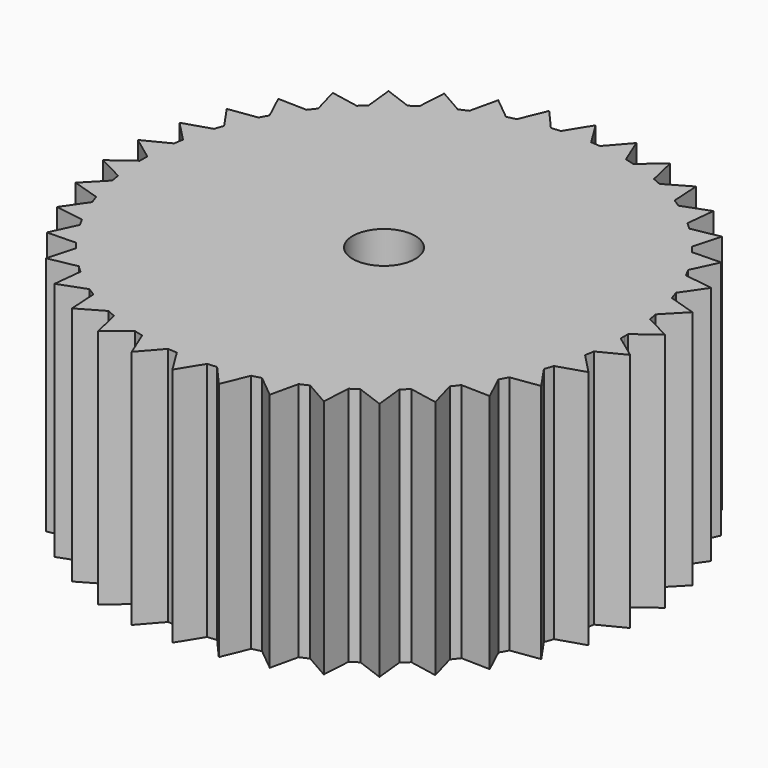
from build123d import *

# Parameters (mm, degrees)
F0_R     = 3.302
F1_DEPTH = 25.4


with BuildPart() as f1:
    # F0 (on Top) → F1 (new body)
    with BuildSketch(Plane.XY):
        with BuildLine():
            ThreePointArc((25.395212, -0.493171), (25.398803, -0.246597), (25.4, 0))
            ThreePointArc((25.4, 0), (25.398803, 0.246597), (25.395212, 0.493171))
            ThreePointArc((25.395212, 0.493171), (25.366916, 1.295991), (25.313246, 2.097515))
            ThreePointArc((25.313246, 2.097515), (25.234257, 2.896941), (25.130027, 3.69347))
            ThreePointArc((25.130027, 3.69347), (25.053577, 4.180703), (24.967681, 4.666359))
            ThreePointArc((24.967681, 4.666359), (24.807631, 5.453573), (24.622767, 6.235331))
            ThreePointArc((24.622767, 6.235331), (24.413274, 7.010853), (24.179361, 7.779362))
            ThreePointArc((24.179361, 7.779362), (24.023758, 8.247367), (23.859097, 8.712261))
            ThreePointArc((23.859097, 8.712261), (23.571658, 9.462395), (23.260642, 10.203064))
            ThreePointArc((23.260642, 10.203064), (22.92636, 10.933527), (22.569146, 11.653054))
            ThreePointArc((22.569146, 11.653054), (22.338633, 12.089064), (22.099699, 12.520516))
            ThreePointArc((22.099699, 12.520516), (21.692713, 13.213108), (21.264029, 13.892483))
            ThreePointArc((21.264029, 13.892483), (20.814075, 14.557963), (20.343302, 15.208881))
            ThreePointArc((20.343302, 15.208881), (20.044169, 15.601003), (19.737479, 15.987243))
            ThreePointArc((19.737479, 15.987243), (19.222046, 16.603401), (18.687387, 17.202952))
            ThreePointArc((18.687387, 17.202952), (18.134036, 17.785295), (17.562546, 18.349849))
            ThreePointArc((17.562546, 18.349849), (17.202952, 18.687387), (16.836871, 19.01788))
            ThreePointArc((16.836871, 19.01788), (16.227053, 19.540797), (15.601003, 20.044169))
            ThreePointArc((15.601003, 20.044169), (14.959348, 20.527491), (14.30273, 20.990281))
            ThreePointArc((14.30273, 20.990281), (13.892483, 21.264029), (13.476998, 21.529759))
            ThreePointArc((13.476998, 21.529759), (12.789427, 21.945171), (12.089064, 22.338633))
            ThreePointArc((12.089064, 22.338633), (11.376608, 22.709751), (10.652773, 23.058153))
            ThreePointArc((10.652773, 23.058153), (10.203064, 23.260642), (9.749508, 23.454362))
            ThreePointArc((9.749508, 23.454362), (9.00294, 23.750938), (8.247367, 24.023758))
            ThreePointArc((8.247367, 24.023758), (7.483544, 24.272548), (6.712236, 24.497059))
            ThreePointArc((6.712236, 24.497059), (6.235331, 24.622767), (5.756076, 24.739191))
            ThreePointArc((5.756076, 24.739191), (4.970875, 24.908842), (4.180703, 25.053577))
            ThreePointArc((4.180703, 25.053577), (3.386348, 25.173253), (2.588606, 25.267749))
            ThreePointArc((2.588606, 25.267749), (2.097515, 25.313246), (1.605634, 25.3492))
            ThreePointArc((1.605634, 25.3492), (0.803219, 25.387297), (0, 25.4))
            ThreePointArc((0, 25.4), (-0.803219, 25.387297), (-1.605634, 25.3492))
            ThreePointArc((-1.605634, 25.3492), (-2.097515, 25.313246), (-2.588606, 25.267749))
            ThreePointArc((-2.588606, 25.267749), (-3.386348, 25.173253), (-4.180703, 25.053577))
            ThreePointArc((-4.180703, 25.053577), (-4.970875, 24.908842), (-5.756076, 24.739191))
            ThreePointArc((-5.756076, 24.739191), (-6.235331, 24.622767), (-6.712236, 24.497059))
            ThreePointArc((-6.712236, 24.497059), (-7.483544, 24.272548), (-8.247367, 24.023758))
            ThreePointArc((-8.247367, 24.023758), (-9.00294, 23.750938), (-9.749508, 23.454362))
            ThreePointArc((-9.749508, 23.454362), (-10.203064, 23.260642), (-10.652773, 23.058153))
            ThreePointArc((-10.652773, 23.058153), (-11.376608, 22.709751), (-12.089064, 22.338633))
            ThreePointArc((-12.089064, 22.338633), (-12.789427, 21.945171), (-13.476998, 21.529759))
            ThreePointArc((-13.476998, 21.529759), (-13.892483, 21.264029), (-14.30273, 20.990281))
            ThreePointArc((-14.30273, 20.990281), (-14.959348, 20.527491), (-15.601003, 20.044169))
            ThreePointArc((-15.601003, 20.044169), (-16.227053, 19.540797), (-16.836871, 19.01788))
            ThreePointArc((-16.836871, 19.01788), (-17.202952, 18.687387), (-17.562546, 18.349849))
            ThreePointArc((-17.562546, 18.349849), (-18.134036, 17.785295), (-18.687387, 17.202952))
            ThreePointArc((-18.687387, 17.202952), (-19.222046, 16.603401), (-19.737479, 15.987243))
            ThreePointArc((-19.737479, 15.987243), (-20.044169, 15.601003), (-20.343302, 15.208881))
            ThreePointArc((-20.343302, 15.208881), (-20.814075, 14.557963), (-21.264029, 13.892483))
            ThreePointArc((-21.264029, 13.892483), (-21.692713, 13.213108), (-22.099699, 12.520516))
            ThreePointArc((-22.099699, 12.520516), (-22.338633, 12.089064), (-22.569146, 11.653054))
            ThreePointArc((-22.569146, 11.653054), (-22.92636, 10.933527), (-23.260642, 10.203064))
            ThreePointArc((-23.260642, 10.203064), (-23.571658, 9.462395), (-23.859097, 8.712261))
            ThreePointArc((-23.859097, 8.712261), (-24.023758, 8.247367), (-24.179361, 7.779362))
            ThreePointArc((-24.179361, 7.779362), (-24.413274, 7.010853), (-24.622767, 6.235331))
            ThreePointArc((-24.622767, 6.235331), (-24.807631, 5.453573), (-24.967681, 4.666359))
            ThreePointArc((-24.967681, 4.666359), (-25.053577, 4.180703), (-25.130027, 3.69347))
            ThreePointArc((-25.130027, 3.69347), (-25.234257, 2.896941), (-25.313246, 2.097515))
            ThreePointArc((-25.313246, 2.097515), (-25.366916, 1.295991), (-25.395212, 0.493171))
            ThreePointArc((-25.395212, 0.493171), (-25.4, 0), (-25.395212, -0.493171))
            ThreePointArc((-25.395212, -0.493171), (-25.366916, -1.295991), (-25.313246, -2.097515))
            ThreePointArc((-25.313246, -2.097515), (-25.234257, -2.896941), (-25.130027, -3.69347))
            ThreePointArc((-25.130027, -3.69347), (-25.053577, -4.180703), (-24.967681, -4.666359))
            ThreePointArc((-24.967681, -4.666359), (-24.807631, -5.453573), (-24.622767, -6.235331))
            ThreePointArc((-24.622767, -6.235331), (-24.413274, -7.010853), (-24.179361, -7.779362))
            ThreePointArc((-24.179361, -7.779362), (-24.023758, -8.247367), (-23.859097, -8.712261))
            ThreePointArc((-23.859097, -8.712261), (-23.571658, -9.462395), (-23.260642, -10.203064))
            ThreePointArc((-23.260642, -10.203064), (-22.92636, -10.933527), (-22.569146, -11.653054))
            ThreePointArc((-22.569146, -11.653054), (-22.338633, -12.089064), (-22.099699, -12.520516))
            ThreePointArc((-22.099699, -12.520516), (-21.692713, -13.213108), (-21.264029, -13.892483))
            ThreePointArc((-21.264029, -13.892483), (-20.814075, -14.557963), (-20.343302, -15.208881))
            ThreePointArc((-20.343302, -15.208881), (-20.044169, -15.601003), (-19.737479, -15.987243))
            ThreePointArc((-19.737479, -15.987243), (-19.222046, -16.603401), (-18.687387, -17.202952))
            ThreePointArc((-18.687387, -17.202952), (-18.134036, -17.785295), (-17.562546, -18.349849))
            ThreePointArc((-17.562546, -18.349849), (-17.202952, -18.687387), (-16.836871, -19.01788))
            ThreePointArc((-16.836871, -19.01788), (-16.227053, -19.540797), (-15.601003, -20.044169))
            ThreePointArc((-15.601003, -20.044169), (-14.959348, -20.527491), (-14.30273, -20.990281))
            ThreePointArc((-14.30273, -20.990281), (-13.892483, -21.264029), (-13.476998, -21.529759))
            ThreePointArc((-13.476998, -21.529759), (-12.789427, -21.945171), (-12.089064, -22.338633))
            ThreePointArc((-12.089064, -22.338633), (-11.376608, -22.709751), (-10.652773, -23.058153))
            ThreePointArc((-10.652773, -23.058153), (-10.203064, -23.260642), (-9.749508, -23.454362))
            ThreePointArc((-9.749508, -23.454362), (-9.00294, -23.750938), (-8.247367, -24.023758))
            ThreePointArc((-8.247367, -24.023758), (-7.483544, -24.272548), (-6.712236, -24.497059))
            ThreePointArc((-6.712236, -24.497059), (-6.235331, -24.622767), (-5.756076, -24.739191))
            ThreePointArc((-5.756076, -24.739191), (-4.970875, -24.908842), (-4.180703, -25.053577))
            ThreePointArc((-4.180703, -25.053577), (-3.386348, -25.173253), (-2.588606, -25.267749))
            ThreePointArc((-2.588606, -25.267749), (-2.097515, -25.313246), (-1.605634, -25.3492))
            ThreePointArc((-1.605634, -25.3492), (-0.803219, -25.387297), (0, -25.4))
            ThreePointArc((0, -25.4), (0.803219, -25.387297), (1.605634, -25.3492))
            ThreePointArc((1.605634, -25.3492), (2.097515, -25.313246), (2.588606, -25.267749))
            ThreePointArc((2.588606, -25.267749), (3.386348, -25.173253), (4.180703, -25.053577))
            ThreePointArc((4.180703, -25.053577), (4.970875, -24.908842), (5.756076, -24.739191))
            ThreePointArc((5.756076, -24.739191), (6.235331, -24.622767), (6.712236, -24.497059))
            ThreePointArc((6.712236, -24.497059), (7.483544, -24.272548), (8.247367, -24.023758))
            ThreePointArc((8.247367, -24.023758), (9.00294, -23.750938), (9.749508, -23.454362))
            ThreePointArc((9.749508, -23.454362), (10.203064, -23.260642), (10.652773, -23.058153))
            ThreePointArc((10.652773, -23.058153), (11.376608, -22.709751), (12.089064, -22.338633))
            ThreePointArc((12.089064, -22.338633), (12.789427, -21.945171), (13.476998, -21.529759))
            ThreePointArc((13.476998, -21.529759), (13.892483, -21.264029), (14.30273, -20.990281))
            ThreePointArc((14.30273, -20.990281), (14.959348, -20.527491), (15.601003, -20.044169))
            ThreePointArc((15.601003, -20.044169), (16.227053, -19.540797), (16.836871, -19.01788))
            ThreePointArc((16.836871, -19.01788), (17.202952, -18.687387), (17.562546, -18.349849))
            ThreePointArc((17.562546, -18.349849), (18.134036, -17.785295), (18.687387, -17.202952))
            ThreePointArc((18.687387, -17.202952), (19.222046, -16.603401), (19.737479, -15.987243))
            ThreePointArc((19.737479, -15.987243), (20.044169, -15.601003), (20.343302, -15.208881))
            ThreePointArc((20.343302, -15.208881), (20.814075, -14.557963), (21.264029, -13.892483))
            ThreePointArc((21.264029, -13.892483), (21.692713, -13.213108), (22.099699, -12.520516))
            ThreePointArc((22.099699, -12.520516), (22.338633, -12.089064), (22.569146, -11.653054))
            ThreePointArc((22.569146, -11.653054), (22.92636, -10.933527), (23.260642, -10.203064))
            ThreePointArc((23.260642, -10.203064), (23.571658, -9.462395), (23.859097, -8.712261))
            ThreePointArc((23.859097, -8.712261), (24.023758, -8.247367), (24.179361, -7.779362))
            ThreePointArc((24.179361, -7.779362), (24.413274, -7.010853), (24.622767, -6.235331))
            ThreePointArc((24.622767, -6.235331), (24.807631, -5.453573), (24.967681, -4.666359))
            ThreePointArc((24.967681, -4.666359), (25.053577, -4.180703), (25.130027, -3.69347))
            ThreePointArc((25.130027, -3.69347), (25.234257, -2.896941), (25.313246, -2.097515))
            ThreePointArc((25.313246, -2.097515), (25.366916, -1.295991), (25.395212, -0.493171))
        make_face()
        Circle(F0_R, mode=Mode.SUBTRACT)
        with BuildLine():
            ThreePointArc((25.313246, 2.097515), (25.366916, 1.295991), (25.395212, 0.493171))
            Line((25.395212, 0.493171), (27.844571, 2.307267))
            Line((27.844571, 2.307267), (25.313246, 2.097515))
        make_face()
        with BuildLine():
            Line((27.844571, -2.307267), (25.395212, -0.493171))
            ThreePointArc((25.395212, -0.493171), (25.366916, -1.295991), (25.313246, -2.097515))
            Line((25.313246, -2.097515), (27.844571, -2.307267))
        make_face()
        with BuildLine():
            ThreePointArc((25.130027, 3.69347), (25.234257, 2.896941), (25.313246, 2.097515))
            Line((25.313246, 2.097515), (27.844571, 2.307267))
            Line((27.844571, 2.307267), (25.130027, 3.69347))
        make_face()
        with BuildLine():
            Line((27.844571, -2.307267), (25.313246, -2.097515))
            ThreePointArc((25.313246, -2.097515), (25.234257, -2.896941), (25.130027, -3.69347))
            Line((25.130027, -3.69347), (27.844571, -2.307267))
        make_face()
        with BuildLine():
            ThreePointArc((24.622767, 6.235331), (24.807631, 5.453573), (24.967681, 4.666359))
            Line((24.967681, 4.666359), (27.085043, 6.858865))
            Line((27.085043, 6.858865), (24.622767, 6.235331))
        make_face()
        with BuildLine():
            Line((27.085043, -6.858865), (24.967681, -4.666359))
            ThreePointArc((24.967681, -4.666359), (24.807631, -5.453573), (24.622767, -6.235331))
            Line((24.622767, -6.235331), (27.085043, -6.858865))
        make_face()
        with BuildLine():
            ThreePointArc((24.179361, 7.779362), (24.413274, 7.010853), (24.622767, 6.235331))
            Line((24.622767, 6.235331), (27.085043, 6.858865))
            Line((27.085043, 6.858865), (24.179361, 7.779362))
        make_face()
        with BuildLine():
            Line((27.085043, -6.858865), (24.622767, -6.235331))
            ThreePointArc((24.622767, -6.235331), (24.413274, -7.010853), (24.179361, -7.779362))
            Line((24.179361, -7.779362), (27.085043, -6.858865))
        make_face()
        with BuildLine():
            ThreePointArc((23.260642, 10.203064), (23.571658, 9.462395), (23.859097, 8.712261))
            Line((23.859097, 8.712261), (25.586707, 11.22337))
            Line((25.586707, 11.22337), (23.260642, 10.203064))
        make_face()
        with BuildLine():
            Line((25.586707, -11.22337), (23.859097, -8.712261))
            ThreePointArc((23.859097, -8.712261), (23.571658, -9.462395), (23.260642, -10.203064))
            Line((23.260642, -10.203064), (25.586707, -11.22337))
        make_face()
        with BuildLine():
            ThreePointArc((22.569146, 11.653054), (22.92636, 10.933527), (23.260642, 10.203064))
            Line((23.260642, 10.203064), (25.586707, 11.22337))
            Line((25.586707, 11.22337), (22.569146, 11.653054))
        make_face()
        with BuildLine():
            Line((25.586707, -11.22337), (23.260642, -10.203064))
            ThreePointArc((23.260642, -10.203064), (22.92636, -10.933527), (22.569146, -11.653054))
            Line((22.569146, -11.653054), (25.586707, -11.22337))
        make_face()
        with BuildLine():
            ThreePointArc((21.264029, 13.892483), (21.692713, 13.213108), (22.099699, 12.520516))
            Line((22.099699, 12.520516), (23.390431, 15.281732))
            Line((23.390431, 15.281732), (21.264029, 13.892483))
        make_face()
        with BuildLine():
            Line((23.390431, -15.281732), (22.099699, -12.520516))
            ThreePointArc((22.099699, -12.520516), (21.692713, -13.213108), (21.264029, -13.892483))
            Line((21.264029, -13.892483), (23.390431, -15.281732))
        make_face()
        with BuildLine():
            ThreePointArc((20.343302, 15.208881), (20.814075, 14.557963), (21.264029, 13.892483))
            Line((21.264029, 13.892483), (23.390431, 15.281732))
            Line((23.390431, 15.281732), (20.343302, 15.208881))
        make_face()
        with BuildLine():
            Line((23.390431, -15.281732), (21.264029, -13.892483))
            ThreePointArc((21.264029, -13.892483), (20.814075, -14.557963), (20.343302, -15.208881))
            Line((20.343302, -15.208881), (23.390431, -15.281732))
        make_face()
        with BuildLine():
            ThreePointArc((18.687387, 17.202952), (19.222046, 16.603401), (19.737479, 15.987243))
            Line((19.737479, 15.987243), (20.556126, 18.923247))
            Line((20.556126, 18.923247), (18.687387, 17.202952))
        make_face()
        with BuildLine():
            Line((20.556126, -18.923247), (19.737479, -15.987243))
            ThreePointArc((19.737479, -15.987243), (19.222046, -16.603401), (18.687387, -17.202952))
            Line((18.687387, -17.202952), (20.556126, -18.923247))
        make_face()
        with BuildLine():
            ThreePointArc((17.562546, 18.349849), (18.134036, 17.785295), (18.687387, 17.202952))
            Line((18.687387, 17.202952), (20.556126, 18.923247))
            Line((20.556126, 18.923247), (17.562546, 18.349849))
        make_face()
        with BuildLine():
            Line((20.556126, -18.923247), (18.687387, -17.202952))
            ThreePointArc((18.687387, -17.202952), (18.134036, -17.785295), (17.562546, -18.349849))
            Line((17.562546, -18.349849), (20.556126, -18.923247))
        make_face()
        with BuildLine():
            ThreePointArc((15.601003, 20.044169), (16.227053, 19.540797), (16.836871, 19.01788))
            Line((16.836871, 19.01788), (17.161103, 22.048586))
            Line((17.161103, 22.048586), (15.601003, 20.044169))
        make_face()
        with BuildLine():
            Line((17.161103, -22.048586), (16.836871, -19.01788))
            ThreePointArc((16.836871, -19.01788), (16.227053, -19.540797), (15.601003, -20.044169))
            Line((15.601003, -20.044169), (17.161103, -22.048586))
        make_face()
        with BuildLine():
            ThreePointArc((14.30273, 20.990281), (14.959348, 20.527491), (15.601003, 20.044169))
            Line((15.601003, 20.044169), (17.161103, 22.048586))
            Line((17.161103, 22.048586), (14.30273, 20.990281))
        make_face()
        with BuildLine():
            Line((17.161103, -22.048586), (15.601003, -20.044169))
            ThreePointArc((15.601003, -20.044169), (14.959348, -20.527491), (14.30273, -20.990281))
            Line((14.30273, -20.990281), (17.161103, -22.048586))
        make_face()
        with BuildLine():
            ThreePointArc((12.089064, 22.338633), (12.789427, 21.945171), (13.476998, 21.529759))
            Line((13.476998, 21.529759), (13.29797, 24.572497))
            Line((13.29797, 24.572497), (12.089064, 22.338633))
        make_face()
        with BuildLine():
            Line((13.29797, -24.572497), (13.476998, -21.529759))
            ThreePointArc((13.476998, -21.529759), (12.789427, -21.945171), (12.089064, -22.338633))
            Line((12.089064, -22.338633), (13.29797, -24.572497))
        make_face()
        with BuildLine():
            ThreePointArc((10.652773, 23.058153), (11.376608, 22.709751), (12.089064, 22.338633))
            Line((12.089064, 22.338633), (13.29797, 24.572497))
            Line((13.29797, 24.572497), (10.652773, 23.058153))
        make_face()
        with BuildLine():
            Line((13.29797, -24.572497), (12.089064, -22.338633))
            ThreePointArc((12.089064, -22.338633), (11.376608, -22.709751), (10.652773, -23.058153))
            Line((10.652773, -23.058153), (13.29797, -24.572497))
        make_face()
        with BuildLine():
            ThreePointArc((8.247367, 24.023758), (9.00294, 23.750938), (9.749508, 23.454362))
            Line((9.749508, 23.454362), (9.072103, 26.426134))
            Line((9.072103, 26.426134), (8.247367, 24.023758))
        make_face()
        with BuildLine():
            Line((9.072103, -26.426134), (9.749508, -23.454362))
            ThreePointArc((9.749508, -23.454362), (9.00294, -23.750938), (8.247367, -24.023758))
            Line((8.247367, -24.023758), (9.072103, -26.426134))
        make_face()
        with BuildLine():
            ThreePointArc((6.712236, 24.497059), (7.483544, 24.272548), (8.247367, 24.023758))
            Line((8.247367, 24.023758), (9.072103, 26.426134))
            Line((9.072103, 26.426134), (6.712236, 24.497059))
        make_face()
        with BuildLine():
            Line((9.072103, -26.426134), (8.247367, -24.023758))
            ThreePointArc((8.247367, -24.023758), (7.483544, -24.272548), (6.712236, -24.497059))
            Line((6.712236, -24.497059), (9.072103, -26.426134))
        make_face()
        with BuildLine():
            ThreePointArc((4.180703, 25.053577), (4.970875, 24.908842), (5.756076, 24.739191))
            Line((5.756076, 24.739191), (4.598773, 27.558935))
            Line((4.598773, 27.558935), (4.180703, 25.053577))
        make_face()
        with BuildLine():
            Line((4.598773, -27.558935), (5.756076, -24.739191))
            ThreePointArc((5.756076, -24.739191), (4.970875, -24.908842), (4.180703, -25.053577))
            Line((4.180703, -25.053577), (4.598773, -27.558935))
        make_face()
        with BuildLine():
            ThreePointArc((2.588606, 25.267749), (3.386348, 25.173253), (4.180703, 25.053577))
            Line((4.180703, 25.053577), (4.598773, 27.558935))
            Line((4.598773, 27.558935), (2.588606, 25.267749))
        make_face()
        with BuildLine():
            Line((4.598773, -27.558935), (4.180703, -25.053577))
            ThreePointArc((4.180703, -25.053577), (3.386348, -25.173253), (2.588606, -25.267749))
            Line((2.588606, -25.267749), (4.598773, -27.558935))
        make_face()
        with BuildLine():
            ThreePointArc((0, 25.4), (0.803219, 25.387297), (1.605634, 25.3492))
            Line((1.605634, 25.3492), (0, 27.94))
            Line((0, 27.94), (0, 25.4))
        make_face()
        with BuildLine():
            Line((0, -27.94), (1.605634, -25.3492))
            ThreePointArc((1.605634, -25.3492), (0.803219, -25.387297), (0, -25.4))
            Line((0, -25.4), (0, -27.94))
        make_face()
        with BuildLine():
            ThreePointArc((-1.605634, 25.3492), (-0.803219, 25.387297), (0, 25.4))
            Line((0, 25.4), (0, 27.94))
            Line((0, 27.94), (-1.605634, 25.3492))
        make_face()
        with BuildLine():
            Line((0, -27.94), (0, -25.4))
            ThreePointArc((0, -25.4), (-0.803219, -25.387297), (-1.605634, -25.3492))
            Line((-1.605634, -25.3492), (0, -27.94))
        make_face()
        with BuildLine():
            ThreePointArc((-4.180703, 25.053577), (-3.386348, 25.173253), (-2.588606, 25.267749))
            Line((-2.588606, 25.267749), (-4.598773, 27.558935))
            Line((-4.598773, 27.558935), (-4.180703, 25.053577))
        make_face()
        with BuildLine():
            Line((-4.598773, -27.558935), (-2.588606, -25.267749))
            ThreePointArc((-2.588606, -25.267749), (-3.386348, -25.173253), (-4.180703, -25.053577))
            Line((-4.180703, -25.053577), (-4.598773, -27.558935))
        make_face()
        with BuildLine():
            ThreePointArc((-5.756076, 24.739191), (-4.970875, 24.908842), (-4.180703, 25.053577))
            Line((-4.180703, 25.053577), (-4.598773, 27.558935))
            Line((-4.598773, 27.558935), (-5.756076, 24.739191))
        make_face()
        with BuildLine():
            Line((-4.598773, -27.558935), (-4.180703, -25.053577))
            ThreePointArc((-4.180703, -25.053577), (-4.970875, -24.908842), (-5.756076, -24.739191))
            Line((-5.756076, -24.739191), (-4.598773, -27.558935))
        make_face()
        with BuildLine():
            ThreePointArc((-8.247367, 24.023758), (-7.483544, 24.272548), (-6.712236, 24.497059))
            Line((-6.712236, 24.497059), (-9.072103, 26.426134))
            Line((-9.072103, 26.426134), (-8.247367, 24.023758))
        make_face()
        with BuildLine():
            Line((-9.072103, -26.426134), (-6.712236, -24.497059))
            ThreePointArc((-6.712236, -24.497059), (-7.483544, -24.272548), (-8.247367, -24.023758))
            Line((-8.247367, -24.023758), (-9.072103, -26.426134))
        make_face()
        with BuildLine():
            ThreePointArc((-9.749508, 23.454362), (-9.00294, 23.750938), (-8.247367, 24.023758))
            Line((-8.247367, 24.023758), (-9.072103, 26.426134))
            Line((-9.072103, 26.426134), (-9.749508, 23.454362))
        make_face()
        with BuildLine():
            Line((-9.072103, -26.426134), (-8.247367, -24.023758))
            ThreePointArc((-8.247367, -24.023758), (-9.00294, -23.750938), (-9.749508, -23.454362))
            Line((-9.749508, -23.454362), (-9.072103, -26.426134))
        make_face()
        with BuildLine():
            ThreePointArc((-12.089064, 22.338633), (-11.376608, 22.709751), (-10.652773, 23.058153))
            Line((-10.652773, 23.058153), (-13.29797, 24.572497))
            Line((-13.29797, 24.572497), (-12.089064, 22.338633))
        make_face()
        with BuildLine():
            Line((-13.29797, -24.572497), (-10.652773, -23.058153))
            ThreePointArc((-10.652773, -23.058153), (-11.376608, -22.709751), (-12.089064, -22.338633))
            Line((-12.089064, -22.338633), (-13.29797, -24.572497))
        make_face()
        with BuildLine():
            ThreePointArc((-13.476998, 21.529759), (-12.789427, 21.945171), (-12.089064, 22.338633))
            Line((-12.089064, 22.338633), (-13.29797, 24.572497))
            Line((-13.29797, 24.572497), (-13.476998, 21.529759))
        make_face()
        with BuildLine():
            Line((-13.29797, -24.572497), (-12.089064, -22.338633))
            ThreePointArc((-12.089064, -22.338633), (-12.789427, -21.945171), (-13.476998, -21.529759))
            Line((-13.476998, -21.529759), (-13.29797, -24.572497))
        make_face()
        with BuildLine():
            ThreePointArc((-15.601003, 20.044169), (-14.959348, 20.527491), (-14.30273, 20.990281))
            Line((-14.30273, 20.990281), (-17.161103, 22.048586))
            Line((-17.161103, 22.048586), (-15.601003, 20.044169))
        make_face()
        with BuildLine():
            Line((-17.161103, -22.048586), (-14.30273, -20.990281))
            ThreePointArc((-14.30273, -20.990281), (-14.959348, -20.527491), (-15.601003, -20.044169))
            Line((-15.601003, -20.044169), (-17.161103, -22.048586))
        make_face()
        with BuildLine():
            ThreePointArc((-16.836871, 19.01788), (-16.227053, 19.540797), (-15.601003, 20.044169))
            Line((-15.601003, 20.044169), (-17.161103, 22.048586))
            Line((-17.161103, 22.048586), (-16.836871, 19.01788))
        make_face()
        with BuildLine():
            Line((-17.161103, -22.048586), (-15.601003, -20.044169))
            ThreePointArc((-15.601003, -20.044169), (-16.227053, -19.540797), (-16.836871, -19.01788))
            Line((-16.836871, -19.01788), (-17.161103, -22.048586))
        make_face()
        with BuildLine():
            ThreePointArc((-18.687387, 17.202952), (-18.134036, 17.785295), (-17.562546, 18.349849))
            Line((-17.562546, 18.349849), (-20.556126, 18.923247))
            Line((-20.556126, 18.923247), (-18.687387, 17.202952))
        make_face()
        with BuildLine():
            Line((-20.556126, -18.923247), (-17.562546, -18.349849))
            ThreePointArc((-17.562546, -18.349849), (-18.134036, -17.785295), (-18.687387, -17.202952))
            Line((-18.687387, -17.202952), (-20.556126, -18.923247))
        make_face()
        with BuildLine():
            ThreePointArc((-19.737479, 15.987243), (-19.222046, 16.603401), (-18.687387, 17.202952))
            Line((-18.687387, 17.202952), (-20.556126, 18.923247))
            Line((-20.556126, 18.923247), (-19.737479, 15.987243))
        make_face()
        with BuildLine():
            Line((-20.556126, -18.923247), (-18.687387, -17.202952))
            ThreePointArc((-18.687387, -17.202952), (-19.222046, -16.603401), (-19.737479, -15.987243))
            Line((-19.737479, -15.987243), (-20.556126, -18.923247))
        make_face()
        with BuildLine():
            ThreePointArc((-21.264029, 13.892483), (-20.814075, 14.557963), (-20.343302, 15.208881))
            Line((-20.343302, 15.208881), (-23.390431, 15.281732))
            Line((-23.390431, 15.281732), (-21.264029, 13.892483))
        make_face()
        with BuildLine():
            Line((-23.390431, -15.281732), (-20.343302, -15.208881))
            ThreePointArc((-20.343302, -15.208881), (-20.814075, -14.557963), (-21.264029, -13.892483))
            Line((-21.264029, -13.892483), (-23.390431, -15.281732))
        make_face()
        with BuildLine():
            ThreePointArc((-22.099699, 12.520516), (-21.692713, 13.213108), (-21.264029, 13.892483))
            Line((-21.264029, 13.892483), (-23.390431, 15.281732))
            Line((-23.390431, 15.281732), (-22.099699, 12.520516))
        make_face()
        with BuildLine():
            Line((-23.390431, -15.281732), (-21.264029, -13.892483))
            ThreePointArc((-21.264029, -13.892483), (-21.692713, -13.213108), (-22.099699, -12.520516))
            Line((-22.099699, -12.520516), (-23.390431, -15.281732))
        make_face()
        with BuildLine():
            ThreePointArc((-23.260642, 10.203064), (-22.92636, 10.933527), (-22.569146, 11.653054))
            Line((-22.569146, 11.653054), (-25.586707, 11.22337))
            Line((-25.586707, 11.22337), (-23.260642, 10.203064))
        make_face()
        with BuildLine():
            Line((-25.586707, -11.22337), (-22.569146, -11.653054))
            ThreePointArc((-22.569146, -11.653054), (-22.92636, -10.933527), (-23.260642, -10.203064))
            Line((-23.260642, -10.203064), (-25.586707, -11.22337))
        make_face()
        with BuildLine():
            ThreePointArc((-23.859097, 8.712261), (-23.571658, 9.462395), (-23.260642, 10.203064))
            Line((-23.260642, 10.203064), (-25.586707, 11.22337))
            Line((-25.586707, 11.22337), (-23.859097, 8.712261))
        make_face()
        with BuildLine():
            Line((-25.586707, -11.22337), (-23.260642, -10.203064))
            ThreePointArc((-23.260642, -10.203064), (-23.571658, -9.462395), (-23.859097, -8.712261))
            Line((-23.859097, -8.712261), (-25.586707, -11.22337))
        make_face()
        with BuildLine():
            ThreePointArc((-24.622767, 6.235331), (-24.413274, 7.010853), (-24.179361, 7.779362))
            Line((-24.179361, 7.779362), (-27.085043, 6.858865))
            Line((-27.085043, 6.858865), (-24.622767, 6.235331))
        make_face()
        with BuildLine():
            Line((-27.085043, -6.858865), (-24.179361, -7.779362))
            ThreePointArc((-24.179361, -7.779362), (-24.413274, -7.010853), (-24.622767, -6.235331))
            Line((-24.622767, -6.235331), (-27.085043, -6.858865))
        make_face()
        with BuildLine():
            ThreePointArc((-24.967681, 4.666359), (-24.807631, 5.453573), (-24.622767, 6.235331))
            Line((-24.622767, 6.235331), (-27.085043, 6.858865))
            Line((-27.085043, 6.858865), (-24.967681, 4.666359))
        make_face()
        with BuildLine():
            Line((-27.085043, -6.858865), (-24.622767, -6.235331))
            ThreePointArc((-24.622767, -6.235331), (-24.807631, -5.453573), (-24.967681, -4.666359))
            Line((-24.967681, -4.666359), (-27.085043, -6.858865))
        make_face()
        with BuildLine():
            ThreePointArc((-25.313246, 2.097515), (-25.234257, 2.896941), (-25.130027, 3.69347))
            Line((-25.130027, 3.69347), (-27.844571, 2.307267))
            Line((-27.844571, 2.307267), (-25.313246, 2.097515))
        make_face()
        with BuildLine():
            Line((-27.844571, -2.307267), (-25.130027, -3.69347))
            ThreePointArc((-25.130027, -3.69347), (-25.234257, -2.896941), (-25.313246, -2.097515))
            Line((-25.313246, -2.097515), (-27.844571, -2.307267))
        make_face()
        with BuildLine():
            ThreePointArc((-25.395212, 0.493171), (-25.366916, 1.295991), (-25.313246, 2.097515))
            Line((-25.313246, 2.097515), (-27.844571, 2.307267))
            Line((-27.844571, 2.307267), (-25.395212, 0.493171))
        make_face()
        with BuildLine():
            Line((-27.844571, -2.307267), (-25.313246, -2.097515))
            ThreePointArc((-25.313246, -2.097515), (-25.366916, -1.295991), (-25.395212, -0.493171))
            Line((-25.395212, -0.493171), (-27.844571, -2.307267))
        make_face()
    extrude(amount=F1_DEPTH)


solid = f1.part
